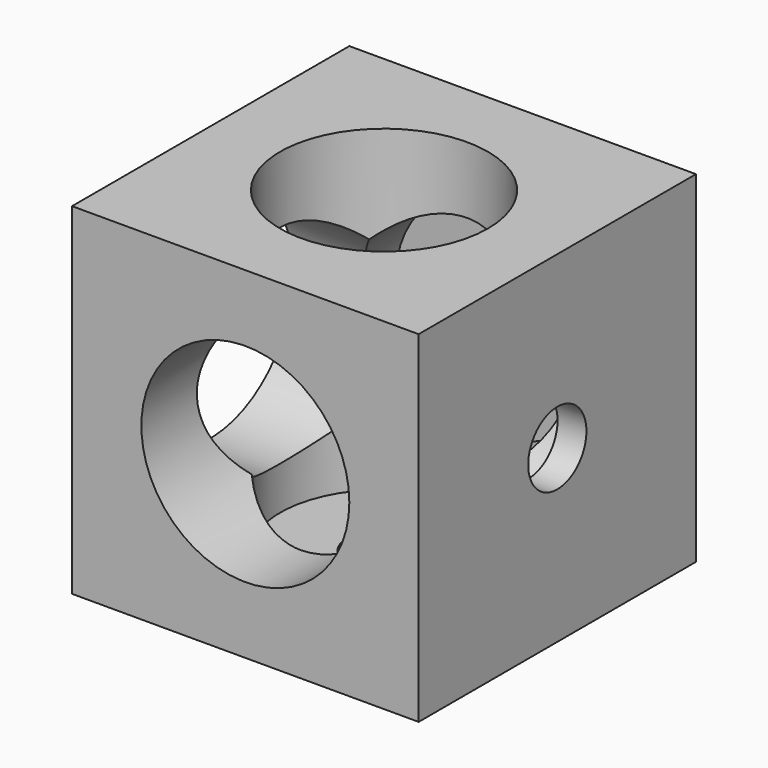
from build123d import *

# Parameters (mm, degrees)
F0_W      = 15
F0_H      = 14.771302
F1_DEPTH  = 15
F2_R      = 4.5
F3_DEPTH  = 13.75
F4_R      = 4.5
F5_DEPTH  = 13.75
F6_R      = 4.5
F7_DEPTH  = 13.75
F8_R      = 1.575
F9_DEPTH  = 15.001
F10_R     = 1.575
F11_DEPTH = 14.772302
F12_R     = 1.575
F13_DEPTH = 15.001


with BuildPart() as f1:
    # F0 (on Front) → F1 (new body)
    with BuildSketch(Plane.XZ):
        Rectangle(F0_W, F0_H)
    extrude(amount=F1_DEPTH)

    # F2 (on face) → F3 (cut)
    with BuildSketch(Plane.XZ.offset(15)):
        Circle(F2_R)
    extrude(amount=-F3_DEPTH, mode=Mode.SUBTRACT)

    # F4 (on face) → F5 (cut)
    with BuildSketch(Plane.XY.offset(7.385651)):
        with Locations((0, -7.5)):
            Circle(F4_R)
    extrude(amount=-F5_DEPTH, mode=Mode.SUBTRACT)

    # F6 (on face) → F7 (cut)
    with BuildSketch(Plane(origin=(-7.5, 0, 0), x_dir=(0, -1, 0), z_dir=(-1, 0, 0))):
        with Locations((7.5, 0)):
            Circle(F6_R)
    extrude(amount=-F7_DEPTH, mode=Mode.SUBTRACT)

    # F8 (on face) → F9 (cut, through all)
    with BuildSketch(Plane(origin=(0, 0, 0), x_dir=(-1, 0, 0), z_dir=(0, 1, 0))):
        Circle(F8_R)
    extrude(amount=-F9_DEPTH, mode=Mode.SUBTRACT)

    # F10 (on face) → F11 (cut, through all)
    with BuildSketch(Plane(origin=(0, 0, -7.385651), x_dir=(1, 0, 0), z_dir=(0, 0, -1))):
        with Locations((0, 7.5)):
            Circle(F10_R)
    extrude(amount=-F11_DEPTH, mode=Mode.SUBTRACT)

    # F12 (on face) → F13 (cut, through all)
    with BuildSketch(Plane.YZ.offset(7.5)):
        with Locations((-7.5, 0)):
            Circle(F12_R)
    extrude(amount=-F13_DEPTH, mode=Mode.SUBTRACT)


solid = f1.part
